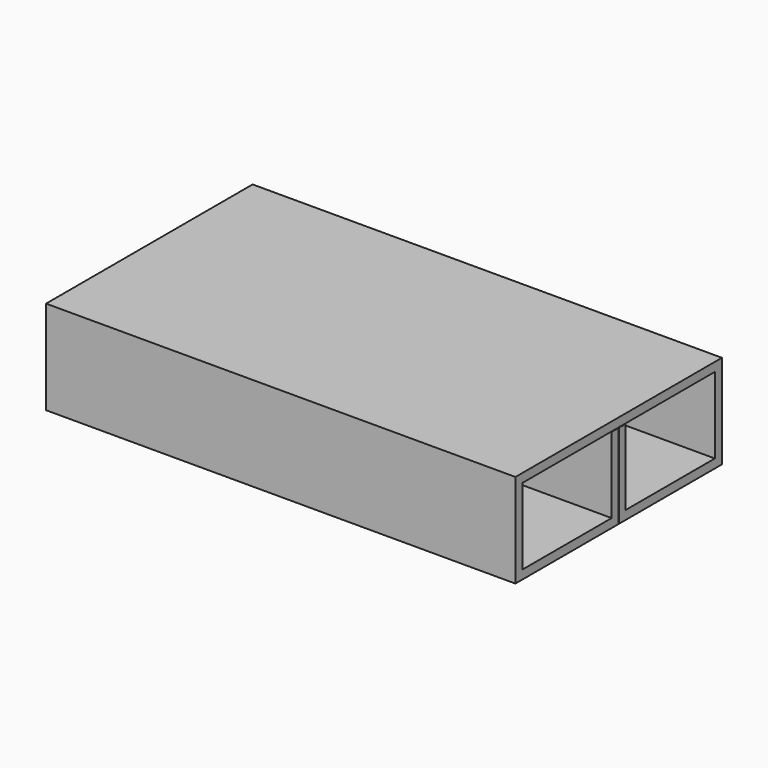
from build123d import *

# Parameters (mm, degrees)
F1_DEPTH = 127


with BuildPart() as f1:
    # F0 (on Right) → F1 (new body, symmetric)
    with BuildSketch(Plane.YZ):
        Polygon((69.85, 50.8), (-69.85, 50.8), (-69.85, 0), (-0.127, 0), (-0.127, 45.7835), (-4.7625, 45.7835), (-4.7625, 4.7625), (-65.0875, 4.7625), (-65.0875, 46.0375), (65.0875, 46.0375), (65.0875, 4.7625), (4.7625, 4.7625), (4.7625, 45.7835), (0.127, 45.7835), (0.127, 0), (69.85, 0), align=None)
    extrude(amount=F1_DEPTH, both=True)


solid = f1.part
